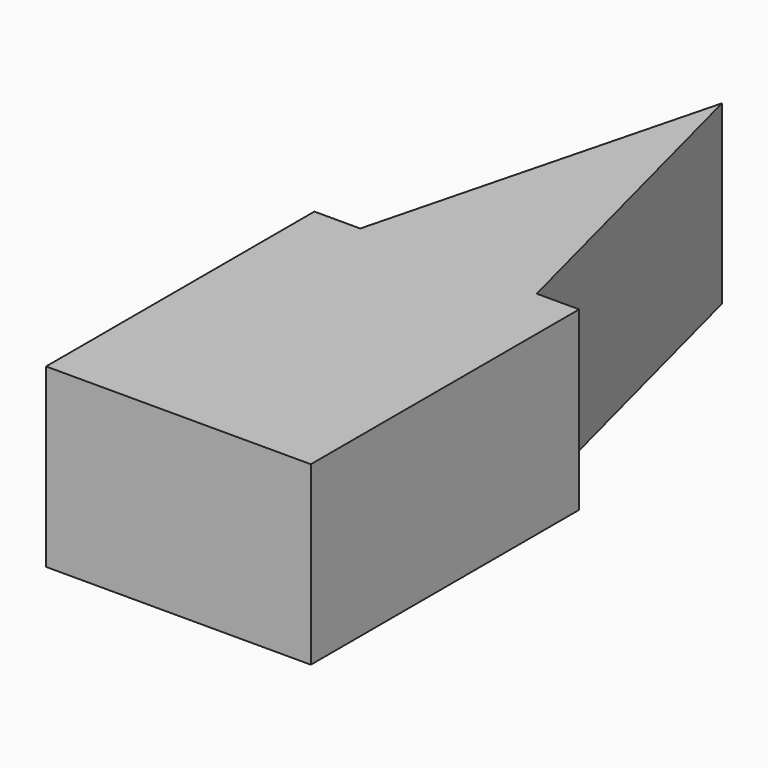
from build123d import *

# Parameters (mm, degrees)
F1_DEPTH = 5


with BuildPart() as f1:
    # F0 (on Top) → F1 (new body, symmetric)
    with BuildSketch(Plane.XY):
        Polygon((-57.352937, 19.364917), (-62.352937, 0), (-52.352937, 0), align=None)
        Polygon((-52.352937, 0), (-62.352937, 0), (-64.950004, 0), (-64.950004, -19), (-49.950004, -19), (-49.950004, 0), align=None)
    extrude(amount=F1_DEPTH, both=True)


solid = f1.part
